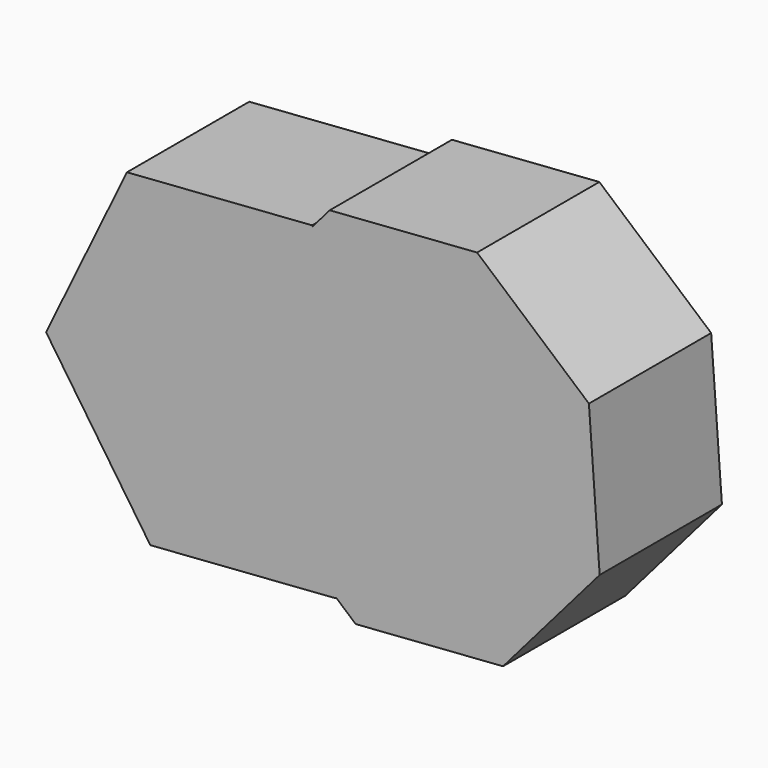
from build123d import *

# Parameters (mm, degrees)
F1_DEPTH      = 15
F1_DEPTH_BACK = 15.5


with BuildPart() as f1:
    # F0 (on Front) → F1 (new body, two sides)
    with BuildSketch(Plane.XZ) as f1_sk:
        Polygon((16.2499278018, 33.1929986593), (16.1416098758, 33.3525367256), (-20.8133391472, 30.6553125732), (-36.9549490229, -2.6972241524), (-16.1416098758, -33.3525367256), (20.8133391472, -30.6553125732), (20.8973442024, -30.4817374644), (2.5185211162, -14.6032467207), (0.3714370581, 14.8141755731), align=None)
        Polygon((19.6544781498, 37.1336520592), (16.2499278018, 33.1929986593), (36.9549490229, 2.6972241524), (20.8973442024, -30.4817374644), (24.8379976023, -33.8862878124), (54.2554198961, -31.7392037543), (73.5384609877, -9.4197272682), (71.3913769297, 19.9976950256), (49.0719004435, 39.2807361173), align=None)
        Polygon((36.9549490229, 2.6972241524), (16.2499278018, 33.1929986593), (0.3714370581, 14.8141755731), (2.5185211162, -14.6032467207), (20.8973442024, -30.4817374644), align=None)
    extrude(amount=F1_DEPTH)
    extrude(f1_sk.sketch, amount=-F1_DEPTH_BACK)


solid = f1.part
